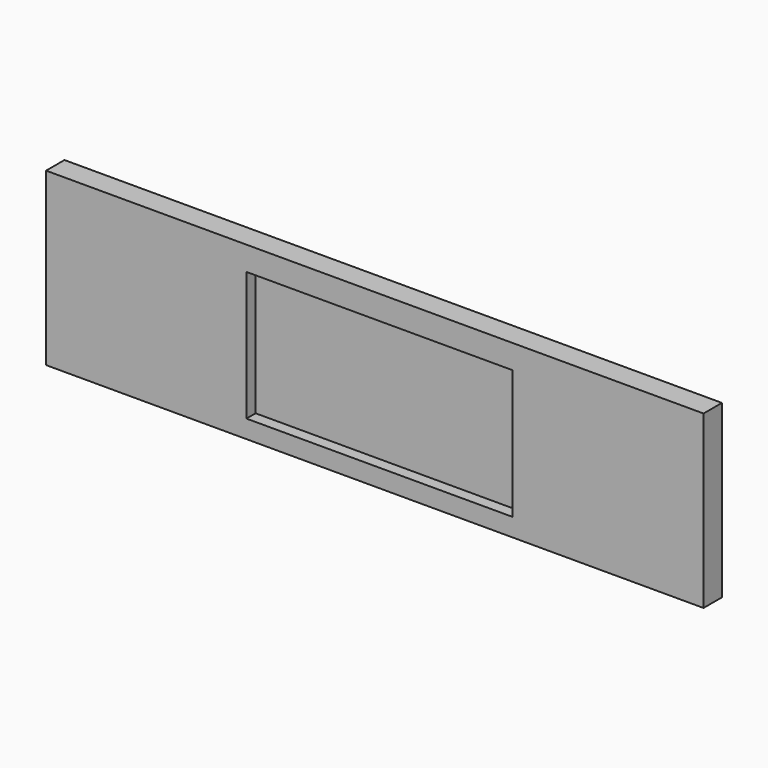
from build123d import *

# Parameters (mm, degrees)
F1_W     = 341.376
F1_H     = 88.9
F1_W_2   = 138.176
F1_H_2   = 67.056
F2_DEPTH = 5.969
F0_W     = 138.176
F0_H     = 67.056
F3_DEPTH = 6.858


with BuildPart() as f2:
    # F1 (on face) → F2 (new body, symmetric)
    with BuildSketch(Plane.XZ):
        with Locations((-0.202325, 5.156035)):
            Rectangle(F1_W, F1_H)
        with Locations((2.221276, 3.622109)):
            Rectangle(F1_W_2, F1_H_2, mode=Mode.SUBTRACT)
    extrude(amount=F2_DEPTH, both=True)

    # F0 (on Front) → F3 (join)
    with BuildSketch(Plane.XZ):
        with Locations((2.221276, 3.622109)):
            Rectangle(F0_W, F0_H)
    extrude(amount=-F3_DEPTH)


solid = f2.part
